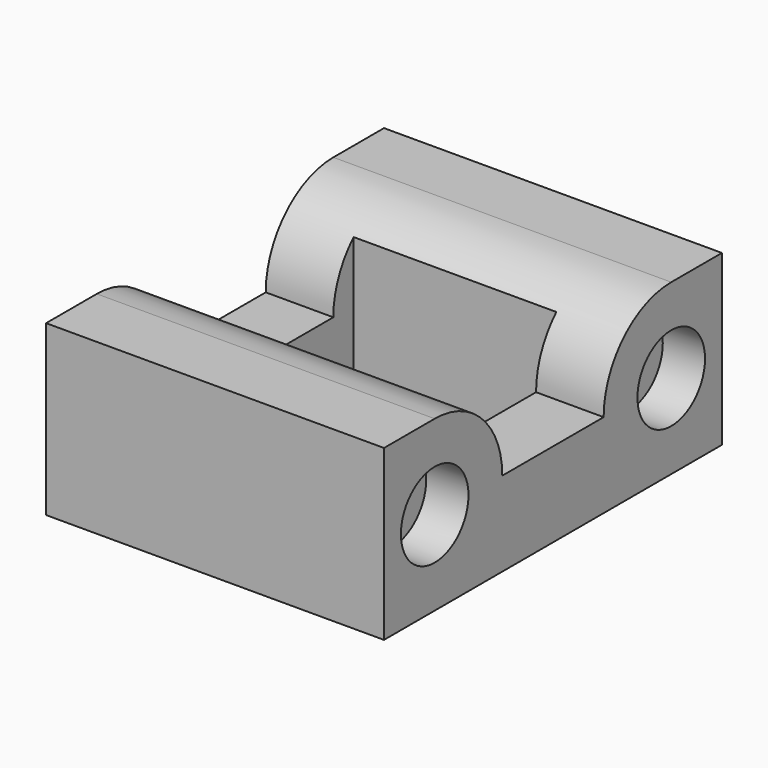
from build123d import *

# Parameters (mm, degrees)
SKETCH_W        = 40
SKETCH_H        = 50
SKETCH_W_2      = 23
SKETCH_H_2      = 20
PAD_DEPTH       = 20
SKETCH001_R     = 2.25
POCKET_DEPTH    = 40.001
SKETCH002_W     = 24
SKETCH002_H     = 21
POCKET001_DEPTH = 19
SKETCH003_R     = 5
POCKET002_DEPTH = 5
POCKET003_DEPTH = 40.001


with BuildPart() as part:
    # Sketch → Pad (new body)
    with BuildSketch(Plane.XY):
        with Locations((20, 25)):
            Rectangle(SKETCH_W, SKETCH_H)
        with Locations((20, 25)):
            Rectangle(SKETCH_W_2, SKETCH_H_2, mode=Mode.SUBTRACT)
    extrude(amount=PAD_DEPTH)

    # Sketch001 → Pocket (cut, through all)
    with BuildSketch(Plane.YZ.offset(40)):
        with Locations((7.5, 10)):
            Circle(SKETCH001_R)
        with Locations((42.5, 10)):
            Circle(SKETCH001_R)
    extrude(amount=-POCKET_DEPTH, mode=Mode.SUBTRACT)

    # Sketch002 → Pocket001 (cut)
    with BuildSketch(Plane.XY.offset(20)):
        with Locations((20, 25)):
            Rectangle(SKETCH002_W, SKETCH002_H)
    extrude(amount=-POCKET001_DEPTH, mode=Mode.SUBTRACT)

    # Sketch003 → Pocket002 (cut)
    with BuildSketch(Plane.YZ.offset(40)):
        with Locations((7.5, 10)):
            Circle(SKETCH003_R)
        with Locations((42.5, 10)):
            Circle(SKETCH003_R)
    extrude(amount=-POCKET002_DEPTH, mode=Mode.SUBTRACT)

    # Sketch004 → Pocket003 (cut, through all)
    with BuildSketch(Plane.YZ.offset(40)):
        with BuildLine():
            ThreePointArc((17.5, 10), (14.571068, 17.071068), (7.5, 20))
            Line((7.5, 20), (7.5, 22))
            Line((7.5, 22), (42.5, 22))
            Line((42.5, 22), (42.5, 20))
            ThreePointArc((42.5, 20), (35.428932, 17.071068), (32.5, 10))
            Line((32.5, 10), (17.5, 10))
        make_face()
    extrude(amount=-POCKET003_DEPTH, mode=Mode.SUBTRACT)


solid = part.part
